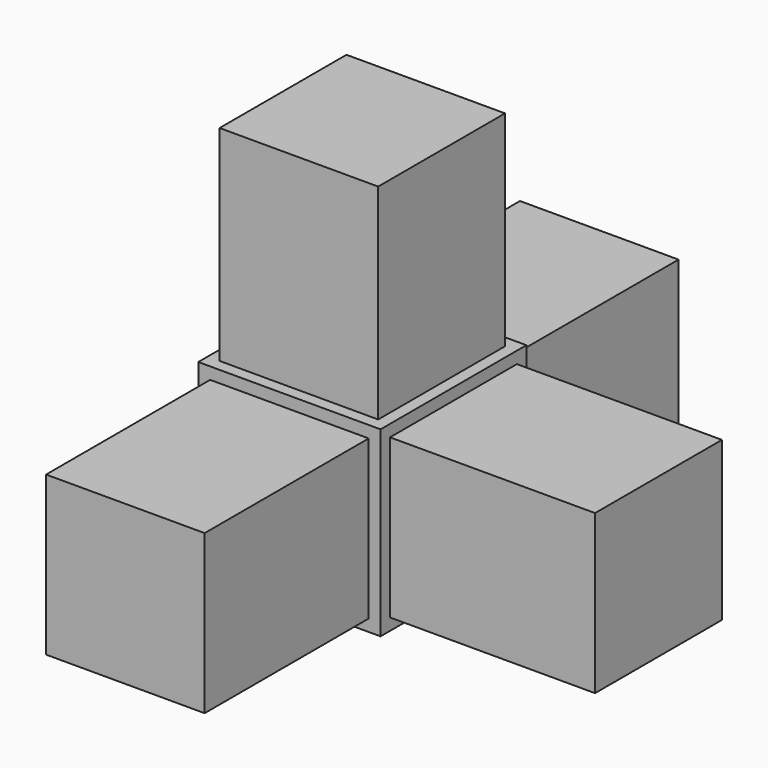
from build123d import *

# Parameters (mm, degrees)
F0_W     = 22.098
F0_H     = 22.098
F1_DEPTH = 41.275
F2_DEPTH = 12.7
F0_H_2   = 28.575
F3_DEPTH = 11.049
F0_W_2   = 28.575
F4_DEPTH = 11.049


with BuildPart() as f1:
    # F0 (on Front) → F1 (new body, symmetric)
    with BuildSketch(Plane.XZ):
        Rectangle(F0_W, F0_H)
    extrude(amount=F1_DEPTH, both=True)

    # F0 (on Front) → F2 (join, symmetric)
    with BuildSketch(Plane.XZ):
        Polygon((-11.049, 12.7), (-12.7, 12.7), (-12.7, -12.7), (12.7, -12.7), (12.7, -11.049), (12.7, 11.049), (12.7, 12.7), (11.049, 12.7), align=None)
        Rectangle(F0_W, F0_H, mode=Mode.SUBTRACT)
        Rectangle(F0_W, F0_H)
    extrude(amount=F2_DEPTH, both=True)

    # F0 (on Front) → F3 (join, symmetric)
    with BuildSketch(Plane.XZ):
        with Locations((0, 26.9875)):
            Rectangle(F0_W, F0_H_2)
    extrude(amount=F3_DEPTH, both=True)

    # F0 (on Front) → F4 (join, symmetric)
    with BuildSketch(Plane.XZ):
        with Locations((26.9875, 0)):
            Rectangle(F0_W_2, F0_H)
    extrude(amount=F4_DEPTH, both=True)


solid = f1.part
